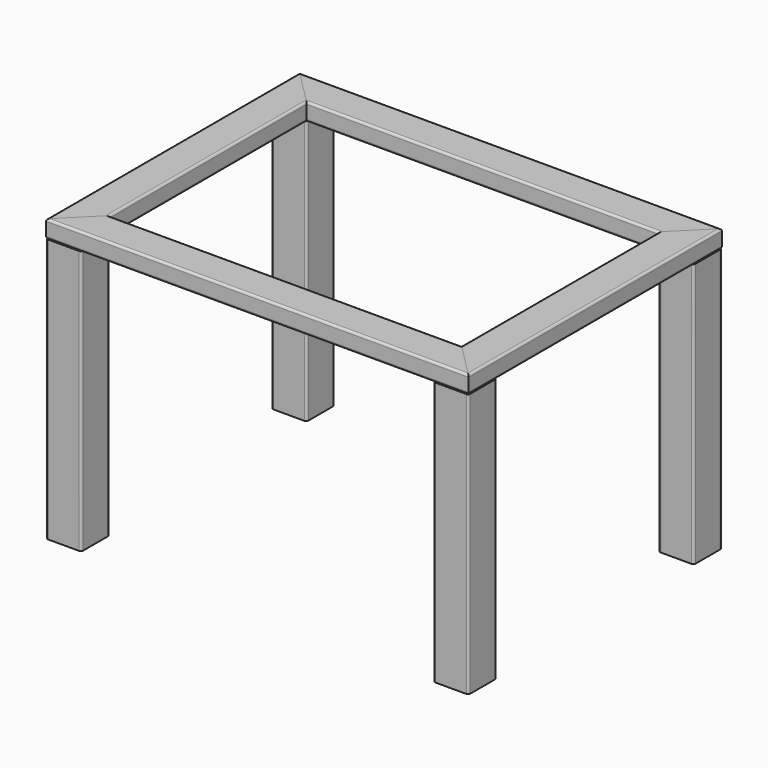
from build123d import *

# Parameters (mm, degrees)
F0_W     = 101.6
F0_H     = 711.2
F1_DEPTH = 50.8
F0_W_2   = 1016
F0_H_2   = 101.6
F2_DEPTH = 50.8
F3_DEPTH = 50.8
F4_DEPTH = 50.8
F5_R     = 6.35
F5_2_R   = 6.35
F5_3_R   = 6.35
F5_4_R   = 6.35
F6_DEPTH = 762
F7_DEPTH = 762
F8_DEPTH = 762
F9_DEPTH = 762
F10_R    = 6.35
F10_2_R  = 6.35
F10_3_R  = 6.35
F10_4_R  = 6.35


with BuildPart() as f1:
    # F0 (on Top) → F1 (new body)
    with BuildSketch(Plane.XY):
        with Locations((-558.8, 0)):
            Rectangle(F0_W, F0_H)
        Polygon((-508, 355.6), (-609.6, 457.2), (-609.6, 355.6), align=None)
        Polygon((-508, -355.6), (-609.6, -355.6), (-609.6, -457.2), align=None)
    extrude(amount=F1_DEPTH)

    # F5#3
    f5_3_edges = [f1.edges().sort_by_distance(p)[0] for p in [
        (-508, 0, 0),
        (-508, 0, 50.8),
        (-609.6, 0, 50.8),
        (-609.6, 0, 0),
    ]]
    fillet(f5_3_edges, radius=F5_3_R)


with BuildPart() as f2:
    # F0 (on Top) → F2 (new body)
    with BuildSketch(Plane.XY):
        with Locations((0, 406.4)):
            Rectangle(F0_W_2, F0_H_2)
        Polygon((-508, 457.2), (-609.6, 457.2), (-508, 355.6), align=None)
        Polygon((609.6, 457.2), (508, 457.2), (508, 355.6), align=None)
    extrude(amount=F2_DEPTH)

    # F5#4
    f5_4_edges = [f2.edges().sort_by_distance(p)[0] for p in [
        (0, 355.6, 50.8),
        (0, 457.2, 50.8),
        (0, 457.2, 0),
        (0, 355.6, 0),
    ]]
    fillet(f5_4_edges, radius=F5_4_R)


with BuildPart() as f3:
    # F0 (on Top) → F3 (new body)
    with BuildSketch(Plane.XY):
        with Locations((558.8, 0)):
            Rectangle(F0_W, F0_H)
        Polygon((609.6, -355.6), (508, -355.6), (609.6, -457.2), align=None)
        Polygon((609.6, 457.2), (508, 355.6), (609.6, 355.6), align=None)
    extrude(amount=F3_DEPTH)

    # F5#2
    f5_2_edges = [f3.edges().sort_by_distance(p)[0] for p in [
        (609.6, 0, 0),
        (609.6, 0, 50.8),
        (508, 0, 50.8),
        (508, 0, 0),
    ]]
    fillet(f5_2_edges, radius=F5_2_R)


with BuildPart() as f4:
    # F0 (on Top) → F4 (new body)
    with BuildSketch(Plane.XY):
        with Locations((0, -406.4)):
            Rectangle(F0_W_2, F0_H_2)
        Polygon((609.6, -457.2), (508, -355.6), (508, -457.2), align=None)
        Polygon((-508, -457.2), (-508, -355.6), (-609.6, -457.2), align=None)
    extrude(amount=F4_DEPTH)

    # F5
    f5_edges = [f4.edges().sort_by_distance(p)[0] for p in [
        (0, -457.2, 50.8),
        (0, -457.2, 0),
        (0, -355.6, 50.8),
        (0, -355.6, 0),
    ]]
    fillet(f5_edges, radius=F5_R)


with BuildPart() as f6:
    # F0 (on Top) → F6 (new body)
    with BuildSketch(Plane.XY):
        Polygon((-508, 457.2), (-609.6, 457.2), (-508, 355.6), align=None)
        Polygon((-508, 355.6), (-609.6, 457.2), (-609.6, 355.6), align=None)
    extrude(amount=-F6_DEPTH)

    # F10#3
    f10_3_edges = [f6.edges().sort_by_distance(p)[0] for p in [
        (-609.6, 355.6, -381),
        (-508, 355.6, -381),
        (-508, 457.2, -381),
        (-609.6, 457.2, -381),
    ]]
    fillet(f10_3_edges, radius=F10_3_R)


with BuildPart() as f7:
    # F0 (on Top) → F7 (new body)
    with BuildSketch(Plane.XY):
        Polygon((-508, -355.6), (-609.6, -355.6), (-609.6, -457.2), align=None)
        Polygon((-508, -457.2), (-508, -355.6), (-609.6, -457.2), align=None)
    extrude(amount=-F7_DEPTH)

    # F10#2
    f10_2_edges = [f7.edges().sort_by_distance(p)[0] for p in [
        (-508, -355.6, -381),
        (-508, -457.2, -381),
        (-609.6, -457.2, -381),
        (-609.6, -355.6, -381),
    ]]
    fillet(f10_2_edges, radius=F10_2_R)


with BuildPart() as f8:
    # F0 (on Top) → F8 (new body)
    with BuildSketch(Plane.XY):
        Polygon((609.6, 457.2), (508, 355.6), (609.6, 355.6), align=None)
        Polygon((609.6, 457.2), (508, 457.2), (508, 355.6), align=None)
    extrude(amount=-F8_DEPTH)

    # F10#4
    f10_4_edges = [f8.edges().sort_by_distance(p)[0] for p in [
        (508, 355.6, -381),
        (609.6, 355.6, -381),
        (609.6, 457.2, -381),
        (508, 457.2, -381),
    ]]
    fillet(f10_4_edges, radius=F10_4_R)


with BuildPart() as f9:
    # F0 (on Top) → F9 (new body)
    with BuildSketch(Plane.XY):
        Polygon((609.6, -457.2), (508, -355.6), (508, -457.2), align=None)
        Polygon((609.6, -355.6), (508, -355.6), (609.6, -457.2), align=None)
    extrude(amount=-F9_DEPTH)

    # F10
    f10_edges = [f9.edges().sort_by_distance(p)[0] for p in [
        (609.6, -457.2, -381),
        (508, -457.2, -381),
        (609.6, -355.6, -381),
        (508, -355.6, -381),
    ]]
    fillet(f10_edges, radius=F10_R)


solid = Compound([f1.part, f2.part, f3.part, f4.part, f6.part, f7.part, f8.part, f9.part])
